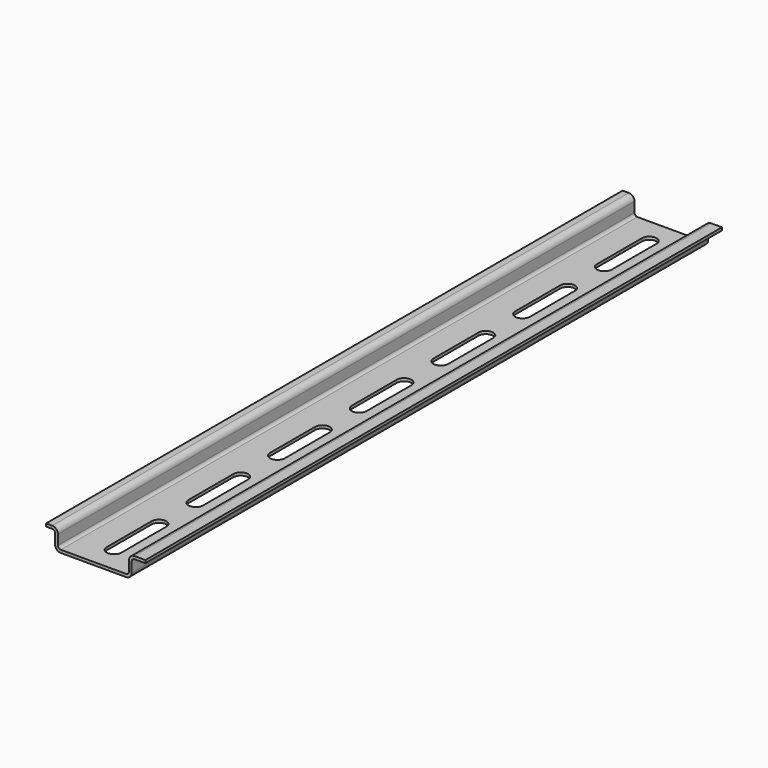
from build123d import *

# Parameters (mm, degrees)
F1_DEPTH = 127
F3_DEPTH = 1.00176


with BuildPart() as f1:
    # F0 (on Front) → F1 (new body, symmetric)
    with BuildSketch(Plane.XZ):
        with BuildLine():
            ThreePointArc((-13.5001, 1.99898), (-12.9146123135, 0.5854876865), (-11.50112, 0))
            Line((-11.50112, 0), (11.50112, 0))
            ThreePointArc((11.50112, 0), (12.9146123135, 0.5854876865), (13.5001, 1.99898))
            Line((13.5001, 1.99898), (13.5001, 5.4991))
            ThreePointArc((13.5001, 5.4991), (13.7932158177, 6.2067441823), (14.50086, 6.49986))
            Line((14.50086, 6.49986), (18.3281093243, 6.49986))
            Line((18.3281093243, 6.49986), (18.3281093243, 7.50062))
            Line((18.3281093243, 7.50062), (14.5161, 7.50062))
            ThreePointArc((14.5161, 7.50062), (13.1026076865, 6.9151323135), (12.51712, 5.50164))
            Line((12.51712, 5.50164), (12.51712, 2.00152))
            ThreePointArc((12.51712, 2.00152), (12.2240041823, 1.2938758177), (11.51636, 1.00076))
            Line((11.51636, 1.00076), (-11.48334, 1.00076))
            ThreePointArc((-11.48334, 1.00076), (-12.1909841823, 1.2938758177), (-12.4841, 2.00152))
            Line((-12.4841, 2.00152), (-12.4841, 5.50164))
            ThreePointArc((-12.4841, 5.50164), (-13.0695876865, 6.9151323135), (-14.48308, 7.50062))
            Line((-14.48308, 7.50062), (-16.6730906757, 7.50062))
            Line((-16.6730906757, 7.50062), (-16.6730906757, 6.49986))
            Line((-16.6730906757, 6.49986), (-14.50086, 6.49986))
            ThreePointArc((-14.50086, 6.49986), (-13.7932158177, 6.2067441823), (-13.5001, 5.4991))
            Line((-13.5001, 5.4991), (-13.5001, 1.99898))
        make_face()
    extrude(amount=F1_DEPTH, both=True)

    # F2 (on face) → F3 (cut, through all)
    with BuildSketch(Plane.XY.offset(1.00076)):
        with BuildLine():
            ThreePointArc((2.59969, 9.89965), (0, 12.49934), (-2.59969, 9.89965))
            Line((-2.59969, 9.89965), (-2.59969, -9.89965))
            ThreePointArc((-2.59969, -9.89965), (0, -12.49934), (2.59969, -9.89965))
            Line((2.59969, -9.89965), (2.59969, 9.89965))
        make_face()
        with BuildLine():
            ThreePointArc((-2.59969, 26.09977), (0, 23.50008), (2.59969, 26.09977))
            Line((2.59969, 26.09977), (2.59969, 45.89907))
            ThreePointArc((2.59969, 45.89907), (0, 48.49876), (-2.59969, 45.89907))
            Line((-2.59969, 45.89907), (-2.59969, 26.09977))
        make_face()
        with BuildLine():
            ThreePointArc((-2.59969, 62.09919), (0, 59.4995), (2.59969, 62.09919))
            Line((2.59969, 62.09919), (2.59969, 81.89849))
            ThreePointArc((2.59969, 81.89849), (0, 84.49818), (-2.59969, 81.89849))
            Line((-2.59969, 81.89849), (-2.59969, 62.09919))
        make_face()
        with BuildLine():
            ThreePointArc((-2.59969, 98.09861), (0, 95.49892), (2.59969, 98.09861))
            Line((2.59969, 98.09861), (2.59969, 117.89791))
            ThreePointArc((2.59969, 117.89791), (0, 120.4976), (-2.59969, 117.89791))
            Line((-2.59969, 117.89791), (-2.59969, 98.09861))
        make_face()
        with BuildLine():
            ThreePointArc((-2.59969, -45.89907), (0, -48.49876), (2.59969, -45.89907))
            Line((2.59969, -45.89907), (2.59969, -26.09977))
            ThreePointArc((2.59969, -26.09977), (0, -23.50008), (-2.59969, -26.09977))
            Line((-2.59969, -26.09977), (-2.59969, -45.89907))
        make_face()
        with BuildLine():
            ThreePointArc((-2.59969, -81.89849), (0, -84.49818), (2.59969, -81.89849))
            Line((2.59969, -81.89849), (2.59969, -62.09919))
            ThreePointArc((2.59969, -62.09919), (0, -59.4995), (-2.59969, -62.09919))
            Line((-2.59969, -62.09919), (-2.59969, -81.89849))
        make_face()
        with BuildLine():
            ThreePointArc((-2.59969, -117.89791), (0, -120.4976), (2.59969, -117.89791))
            Line((2.59969, -117.89791), (2.59969, -98.09861))
            ThreePointArc((2.59969, -98.09861), (0, -95.49892), (-2.59969, -98.09861))
            Line((-2.59969, -98.09861), (-2.59969, -117.89791))
        make_face()
    extrude(amount=-F3_DEPTH, mode=Mode.SUBTRACT)


solid = f1.part
